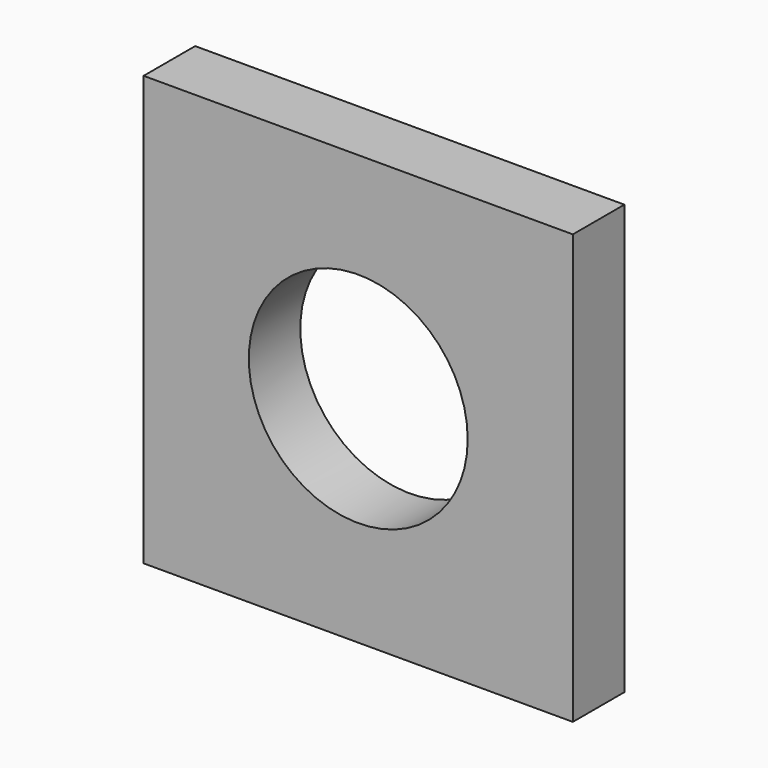
from build123d import *

# Parameters (mm, degrees)
SKETCH001_W  = 20
SKETCH001_H  = 20
PAD_DEPTH    = 3
SKETCH002_R  = 5.1
POCKET_DEPTH = 5


with BuildPart() as part:
    # Sketch001 → Pad (new body)
    with BuildSketch(Plane.XZ.offset(10)):
        with Locations((0, 10)):
            Rectangle(SKETCH001_W, SKETCH001_H)
    extrude(amount=PAD_DEPTH)

    # Sketch002 → Pocket (cut)
    with BuildSketch(Plane.XZ.offset(14)):
        with Locations((0, 10)):
            Circle(SKETCH002_R)
    extrude(amount=-POCKET_DEPTH, mode=Mode.SUBTRACT)


solid = part.part
